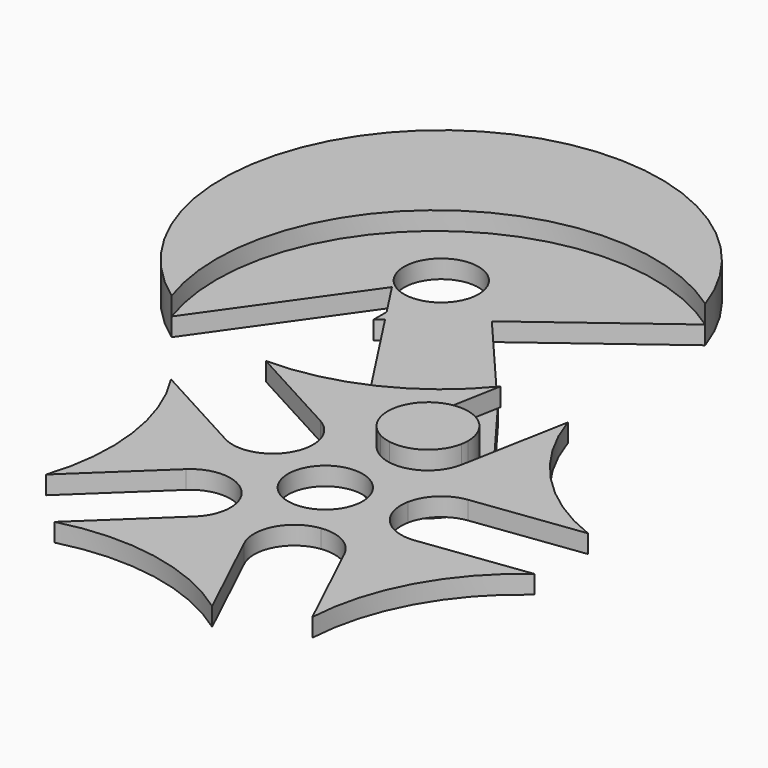
from build123d import *

# Parameters (mm, degrees)
F1_DEPTH = 3.175
F3_DEPTH = 3.175
F4_DEPTH = 3.175
F5_DEPTH = 6.35
F6_D     = 12.954
F7_D     = 12.954


with BuildPart() as f1:
    # F0 (on Top) → F1 (new body)
    with BuildSketch(Plane.XY):
        with BuildLine():
            Line((-3.4925, 19.3728821291), (0, 38.1))
            ThreePointArc((0, 38.1), (-13.191577027, 27.7363784004), (-29.5556407262, 24.0431716141))
            Line((-29.5556407262, 24.0431716141), (-12.8243350965, 14.9346090532))
            ThreePointArc((-12.8243350965, 14.9346090532), (-10.1591945825, 12.3678271309), (-9.1791413688, 8.799796989))
            ThreePointArc((-9.1791413688, 8.799796989), (-9.7556810347, 6.0209732906), (-11.3901252333, 3.7008760308))
            Line((-11.3901252333, 3.7008760308), (0, 0))
            Line((0, 0), (0, 11.9762864121))
            ThreePointArc((0, 11.9762864121), (-2.9421779805, 15.1098949687), (-3.4925, 19.3728821291))
        make_face()
        with BuildLine():
            Line((-7.0394845303, -9.6890192369), (0, 0))
            Line((0, 0), (-11.3901252333, 3.7008760308))
            ThreePointArc((-11.3901252333, 3.7008760308), (-15.279547067, 1.8710367881), (-19.5039476412, 2.6649849248))
            Line((-19.5039476412, 2.6649849248), (-36.2352532708, 11.7735474857))
            ThreePointArc((-36.2352532708, 11.7735474857), (-30.4552849001, -3.9749230036), (-31.9996103, -20.6793360785))
            Line((-31.9996103, -20.6793360785), (-18.1665947447, -7.5816194589))
            ThreePointArc((-18.1665947447, -7.5816194589), (-12.0642931739, -5.7907279512), (-7.0394845303, -9.6890192369))
        make_face()
        with BuildLine():
            ThreePointArc((-22.3946181123, -30.8235474857), (-5.6308241783, -30.1930159193), (9.778793934, -36.8237041754))
            Line((9.778793934, -36.8237041754), (1.5967620844, -19.6203075685))
            ThreePointArc((1.5967620844, -19.6203075685), (1.7792379362, -13.2632579843), (7.0394845303, -9.6890192369))
            Line((7.0394845303, -9.6890192369), (0, 0))
            Line((0, 0), (-7.0394845303, -9.6890192369))
            ThreePointArc((-7.0394845303, -9.6890192369), (-6.5461937442, -11.1350422846), (-6.3790986509, -12.6537251625))
            ThreePointArc((-6.3790986509, -12.6537251625), (-6.9478824678, -15.4145936657), (-8.561602557, -17.7258308661))
            Line((-8.561602557, -17.7258308661), (-22.3946181123, -30.8235474857))
        make_face()
        with BuildLine():
            ThreePointArc((22.3946181123, -30.8235474857), (26.9752441732, -14.6853870574), (38.0432373202, -2.0789646936))
            Line((38.0432373202, -2.0789646936), (19.1534479848, -4.5443974882))
            ThreePointArc((19.1534479848, -4.5443974882), (13.1639226926, -2.4064162846), (11.3901252333, 3.7008760308))
            Line((11.3901252333, 3.7008760308), (0, 0))
            Line((0, 0), (7.0394845303, -9.6890192369))
            ThreePointArc((7.0394845303, -9.6890192369), (11.261645413, -10.4947929864), (14.2125862627, -13.6201508788))
            Line((14.2125862627, -13.6201508788), (22.3946181123, -30.8235474857))
        make_face()
        with BuildLine():
            Line((17.3454639355, 9.3081146911), (36.2352532708, 11.7735474857))
            ThreePointArc((36.2352532708, 11.7735474857), (22.3024419322, 21.1169475799), (13.733219772, 35.5388333333))
            Line((13.733219772, 35.5388333333), (10.240719772, 16.8117154624))
            ThreePointArc((10.240719772, 16.8117154624), (8.1907895334, 13.0336604242), (4.3168759409, 11.1712138255))
            Line((4.3168759409, 11.1712138255), (0, 0))
            Line((0, 0), (11.3901252333, 3.7008760308))
            ThreePointArc((11.3901252333, 3.7008760308), (13.4611810741, 7.467391869), (17.3454639355, 9.3081146911))
        make_face()
        with BuildLine():
            Line((0, 0), (4.3168759409, 11.1712138255))
            ThreePointArc((4.3168759409, 11.1712138255), (2.0935265527, 11.2256889098), (0, 11.9762864121))
            Line((0, 11.9762864121), (0, 0))
        make_face()
    extrude(amount=F1_DEPTH)

    # F6 (through all)
    with Locations(Plane(origin=(0, 0, 0), x_dir=(1, 0, 0), z_dir=(0, 0, -1))):
        with Locations((0, 0)):
            Hole(F6_D / 2)


with BuildPart() as f3:
    # F2 (on Top) → F3 (new body)
    with BuildSketch(Plane.XY):
        with BuildLine():
            Line((0, 22.6059219694), (3.374109886, 18.0922987958))
            Line((3.374109886, 18.0922987958), (8.9687114132, 22.2744822868))
            ThreePointArc((8.9687114132, 22.2744822868), (4.8463766175, 24.9203772716), (0, 24.2083111795))
            Line((0, 24.2083111795), (0, 22.6059219694))
        make_face()
        with BuildLine():
            Line((3.374109886, 18.0922987958), (10.240719772, 16.8117154624))
            ThreePointArc((10.240719772, 16.8117154624), (10.3294493836, 17.4492766553), (10.359109886, 18.0922987958))
            ThreePointArc((10.359109886, 18.0922987958), (10.0024021497, 20.2959245958), (8.9687114132, 22.2744822868))
            Line((8.9687114132, 22.2744822868), (3.374109886, 18.0922987958))
        make_face()
        with BuildLine():
            ThreePointArc((2.1556683682, 11.2143903006), (7.3500328883, 12.3492803142), (10.240719772, 16.8117154624))
            Line((10.240719772, 16.8117154624), (3.374109886, 18.0922987958))
            Line((3.374109886, 18.0922987958), (0, 15.5700196677))
            Line((0, 15.5700196677), (0, 14.8690522954))
            Line((0, 14.8690522954), (2.1556683682, 11.2143903006))
        make_face()
        Polygon((0, 15.5700196677), (0, 18.7215509241), (-2.5532194688, 19.197711701), (-0.286939248, 15.3555213553), align=None)
        Polygon((0, 15.5700196677), (3.374109886, 18.0922987958), (0, 18.7215509241), align=None)
        Polygon((0, 18.7215509241), (3.374109886, 18.0922987958), (0, 22.6059219694), align=None)
        with BuildLine():
            ThreePointArc((-3.7462920577, 12.7695198073), (-2.0700740867, 11.0642862125), (0, 9.8674898328))
            Line((0, 9.8674898328), (0, 11.9762864121))
            ThreePointArc((0, 11.9762864121), (-1.2133043802, 12.8248653268), (-2.2204916412, 13.9101153048))
            Line((-2.2204916412, 13.9101153048), (-3.7462920577, 12.7695198073))
        make_face()
        with BuildLine():
            Line((-3.2916828829, 20.4496826507), (-2.4843020924, 24.7789354011))
            ThreePointArc((-2.4843020924, 24.7789354011), (-3.5587978247, 23.6570890591), (-4.4216116838, 22.3653334559))
            Line((-4.4216116838, 22.3653334559), (-3.2916828829, 20.4496826507))
        make_face()
        with BuildLine():
            Line((0, 11.9762864121), (0, 9.8674898328))
            ThreePointArc((0, 9.8674898328), (1.6390535727, 9.3732575876), (3.3424485628, 9.2023551761))
            Line((3.3424485628, 9.2023551761), (2.1556683682, 11.2143903006))
            ThreePointArc((2.1556683682, 11.2143903006), (1.0464493608, 11.5065398054), (0, 11.9762864121))
        make_face()
        with BuildLine():
            Line((10.240719772, 16.8117154624), (11.2489176796, 22.2177687344))
            ThreePointArc((11.2489176796, 22.2177687344), (10.8955768976, 22.8314584253), (10.4945118297, 23.4150777843))
            Line((10.4945118297, 23.4150777843), (8.9687114132, 22.2744822868))
            ThreePointArc((8.9687114132, 22.2744822868), (10.0024021497, 20.2959245958), (10.359109886, 18.0922987958))
            ThreePointArc((10.359109886, 18.0922987958), (10.3294493836, 17.4492766553), (10.240719772, 16.8117154624))
        make_face()
        with BuildLine():
            Line((8.9687114132, 22.2744822868), (10.4945118297, 23.4150777843))
            ThreePointArc((10.4945118297, 23.4150777843), (5.7435234291, 26.6607280253), (0, 26.3171077587))
            Line((0, 26.3171077587), (0, 24.2083111795))
            ThreePointArc((0, 24.2083111795), (4.8463766175, 24.9203772716), (8.9687114132, 22.2744822868))
        make_face()
        with BuildLine():
            Line((0, 24.2083111795), (0, 26.3171077587))
            ThreePointArc((0, 26.3171077587), (-1.0092561425, 25.8265215919), (-1.9486691025, 25.2127007395))
            Line((-1.9486691025, 25.2127007395), (-0.808073605, 23.6869003229))
            ThreePointArc((-0.808073605, 23.6869003229), (-0.4130209171, 23.961529178), (0, 24.2083111795))
        make_face()
        with BuildLine():
            Line((-0.808073605, 23.6869003229), (-1.9486691025, 25.2127007395))
            ThreePointArc((-1.9486691025, 25.2127007395), (-2.2206909105, 25.0010109803), (-2.4843020924, 24.7789354011))
            Line((-2.4843020924, 24.7789354011), (-3.2916828829, 20.4496826507))
            Line((-3.2916828829, 20.4496826507), (-3.2348314891, 20.3532983314))
            ThreePointArc((-3.2348314891, 20.3532983314), (-2.2730415666, 22.2032482569), (-0.808073605, 23.6869003229))
        make_face()
        with BuildLine():
            ThreePointArc((-8.9728483214, 30.081377266), (-11.6730301026, 28.5006057595), (-14.49381421, 27.1467234801))
            Line((-14.49381421, 27.1467234801), (-3.7462920577, 12.7695198073))
            ThreePointArc((-3.7462920577, 12.7695198073), (-5.4939561412, 17.4681954886), (-4.4216116838, 22.3653334559))
            Line((-4.4216116838, 22.3653334559), (-8.9728483214, 30.081377266))
        make_face()
        with BuildLine():
            Line((-2.3126117983, 25.6995551221), (-0.0964468265, 37.5828429241))
            Line((-0.0964468265, 37.5828429241), (-0.2530103227, 37.7922814571))
            ThreePointArc((-0.2530103227, 37.7922814571), (-3.3166716228, 34.5184272643), (-6.7437307754, 31.6271632841))
            Line((-6.7437307754, 31.6271632841), (-2.3126117983, 25.6995551221))
        make_face()
        with BuildLine():
            Line((10.4945118297, 23.4150777843), (0, 37.4538238211))
            Line((0, 37.4538238211), (0, 26.3171077587))
            ThreePointArc((0, 26.3171077587), (5.7435234291, 26.6607280253), (10.4945118297, 23.4150777843))
        make_face()
        with BuildLine():
            Line((0, 26.3171077587), (0, 37.4538238211))
            Line((0, 37.4538238211), (-0.0964468265, 37.5828429241))
            Line((-0.0964468265, 37.5828429241), (-2.3126117983, 25.6995551221))
            Line((-2.3126117983, 25.6995551221), (-1.9486691025, 25.2127007395))
            ThreePointArc((-1.9486691025, 25.2127007395), (-1.0092561425, 25.8265215919), (0, 26.3171077587))
        make_face()
        with BuildLine():
            Line((0, 22.6059219694), (0, 24.2083111795))
            ThreePointArc((0, 24.2083111795), (-0.4130209171, 23.961529178), (-0.808073605, 23.6869003229))
            Line((-0.808073605, 23.6869003229), (0, 22.6059219694))
        make_face()
        with BuildLine():
            Line((-1.9486691025, 25.2127007395), (-2.3126117983, 25.6995551221))
            Line((-2.3126117983, 25.6995551221), (-2.4843020924, 24.7789354011))
            ThreePointArc((-2.4843020924, 24.7789354011), (-2.2206909105, 25.0010109803), (-1.9486691025, 25.2127007395))
        make_face()
        with BuildLine():
            ThreePointArc((-6.7437307754, 31.6271632841), (-3.3166716228, 34.5184272643), (-0.2530103227, 37.7922814571))
            Line((-0.2530103227, 37.7922814571), (-0.3964227158, 37.9114591345))
            Line((-0.3964227158, 37.9114591345), (-8.5445523178, 34.0361630263))
            Line((-8.5445523178, 34.0361630263), (-6.7437307754, 31.6271632841))
        make_face()
        with BuildLine():
            ThreePointArc((-8.9728483214, 30.081377266), (-7.8445280938, 30.8344254197), (-6.7437307754, 31.6271632841))
            Line((-6.7437307754, 31.6271632841), (-8.5445523178, 34.0361630263))
            Line((-8.5445523178, 34.0361630263), (-10.7006800626, 33.0106965859))
            Line((-10.7006800626, 33.0106965859), (-8.9728483214, 30.081377266))
        make_face()
        with BuildLine():
            ThreePointArc((-10.483112718, 36.6294191565), (-14.5886680137, 35.1963175004), (-18.5041843573, 33.304731815))
            Line((-18.5041843573, 33.304731815), (-16.5125517946, 30.2465378152))
            Line((-16.5125517946, 30.2465378152), (-10.7006800626, 33.0106965859))
            Line((-10.7006800626, 33.0106965859), (-8.5445523178, 34.0361630263))
            Line((-8.5445523178, 34.0361630263), (-10.483112718, 36.6294191565))
        make_face()
        with BuildLine():
            Line((-0.3964227158, 37.9114591345), (-0.6172854684, 38.0949991292))
            ThreePointArc((-0.6172854684, 38.0949991292), (-5.5983650416, 37.6864472836), (-10.483112718, 36.6294191565))
            Line((-10.483112718, 36.6294191565), (-8.5445523178, 34.0361630263))
            Line((-8.5445523178, 34.0361630263), (-0.3964227158, 37.9114591345))
        make_face()
        with BuildLine():
            ThreePointArc((-0.6172854684, 38.0949991292), (-0.5650149545, 38.0958102434), (-0.5127433768, 38.0965496368))
            Line((-0.5127433768, 38.0965496368), (-16.6970522411, 57.0559008639))
            Line((-16.6970522411, 57.0559008639), (-22.5063728772, 52.7132064397))
            Line((-22.5063728772, 52.7132064397), (-10.483112718, 36.6294191565))
            ThreePointArc((-10.483112718, 36.6294191565), (-5.5983650416, 37.6864472836), (-0.6172854684, 38.0949991292))
        make_face()
        with BuildLine():
            Line((-28.3156935133, 48.3705120154), (-18.5041843573, 33.304731815))
            ThreePointArc((-18.5041843573, 33.304731815), (-14.5886680137, 35.1963175004), (-10.483112718, 36.6294191565))
            Line((-10.483112718, 36.6294191565), (-22.5063728772, 52.7132064397))
            Line((-22.5063728772, 52.7132064397), (-28.3156935133, 48.3705120154))
        make_face()
        with BuildLine():
            Line((-22.5063728772, 52.7132064397), (-16.6970522411, 57.0559008639))
            Line((-16.6970522411, 57.0559008639), (-22.9554744347, 64.3874233584))
            Line((-22.9554744347, 64.3874233584), (-23.4234489343, 64.2282981878))
            ThreePointArc((-23.4234489343, 64.2282981878), (-23.1654241713, 63.1998936126), (-23.0786407262, 62.1431716141))
            ThreePointArc((-23.0786407262, 62.1431716141), (-23.7647213291, 59.2420026194), (-25.6776160345, 56.955450198))
            Line((-25.6776160345, 56.955450198), (-22.5063728772, 52.7132064397))
        make_face()
        with BuildLine():
            Line((-29.5556407262, 50.2744772333), (-28.3156935133, 48.3705120154))
            Line((-28.3156935133, 48.3705120154), (-22.5063728772, 52.7132064397))
            Line((-22.5063728772, 52.7132064397), (-25.6776160345, 56.955450198))
            ThreePointArc((-25.6776160345, 56.955450198), (-27.5122786207, 55.9969369696), (-29.5556407262, 55.6661716141))
            Line((-29.5556407262, 55.6661716141), (-29.5556407262, 50.2744772333))
        make_face()
        with BuildLine():
            Line((-33.2910814494, 56.8518568811), (-33.576149344, 56.4480534045))
            Line((-33.576149344, 56.4480534045), (-29.5556407262, 50.2744772333))
            Line((-29.5556407262, 50.2744772333), (-29.5556407262, 55.6661716141))
            ThreePointArc((-29.5556407262, 55.6661716141), (-31.5151921384, 55.9697052246), (-33.2910814494, 56.8518568811))
        make_face()
        with BuildLine():
            Line((-29.5556407262, 62.1431716141), (-33.2910814494, 56.8518568811))
            ThreePointArc((-33.2910814494, 56.8518568811), (-31.5151921384, 55.9697052246), (-29.5556407262, 55.6661716141))
            Line((-29.5556407262, 55.6661716141), (-29.5556407262, 62.1431716141))
        make_face()
        with BuildLine():
            Line((-29.5556407262, 62.1431716141), (-29.5556407262, 55.6661716141))
            ThreePointArc((-29.5556407262, 55.6661716141), (-27.5122786207, 55.9969369696), (-25.6776160345, 56.955450198))
            Line((-25.6776160345, 56.955450198), (-29.5556407262, 62.1431716141))
        make_face()
        with BuildLine():
            ThreePointArc((-23.0786407262, 62.1431716141), (-23.1654241713, 63.1998936126), (-23.4234489343, 64.2282981878))
            Line((-23.4234489343, 64.2282981878), (-29.5556407262, 62.1431716141))
            Line((-29.5556407262, 62.1431716141), (-25.6776160345, 56.955450198))
            ThreePointArc((-25.6776160345, 56.955450198), (-23.7647213291, 59.2420026194), (-23.0786407262, 62.1431716141))
        make_face()
        with BuildLine():
            ThreePointArc((-24.6293998875, 66.3483684227), (-33.4336654178, 67.3308930302), (-34.9831510827, 58.6085343866))
            Line((-34.9831510827, 58.6085343866), (-24.6293998875, 66.3483684227))
        make_face()
        with BuildLine():
            Line((-24.6293998875, 66.3483684227), (-34.9831510827, 58.6085343866))
            ThreePointArc((-34.9831510827, 58.6085343866), (-34.2205519886, 57.6498285476), (-33.2910814494, 56.8518568811))
            Line((-33.2910814494, 56.8518568811), (-29.5556407262, 62.1431716141))
            Line((-29.5556407262, 62.1431716141), (-23.4234489343, 64.2282981878))
            ThreePointArc((-23.4234489343, 64.2282981878), (-23.9257288697, 65.3456115415), (-24.6293998875, 66.3483684227))
        make_face()
        with BuildLine():
            Line((-34.9831510827, 58.6085343866), (-33.576149344, 56.4480534045))
            Line((-33.576149344, 56.4480534045), (-33.2910814494, 56.8518568811))
            ThreePointArc((-33.2910814494, 56.8518568811), (-34.2205519886, 57.6498285476), (-34.9831510827, 58.6085343866))
        make_face()
        with BuildLine():
            Line((-24.6293998875, 66.3483684227), (-34.9831510827, 58.6085343866))
            ThreePointArc((-34.9831510827, 58.6085343866), (-34.2205519886, 57.6498285476), (-33.2910814494, 56.8518568811))
            Line((-33.2910814494, 56.8518568811), (-29.5556407262, 62.1431716141))
            Line((-29.5556407262, 62.1431716141), (-23.4234489343, 64.2282981878))
            ThreePointArc((-23.4234489343, 64.2282981878), (-23.9257288697, 65.3456115415), (-24.6293998875, 66.3483684227))
        make_face()
        with BuildLine():
            Line((-23.4234489343, 64.2282981878), (-22.9554744347, 64.3874233584))
            Line((-22.9554744347, 64.3874233584), (-24.6293998875, 66.3483684227))
            ThreePointArc((-24.6293998875, 66.3483684227), (-23.9257288697, 65.3456115415), (-23.4234489343, 64.2282981878))
        make_face()
        with BuildLine():
            ThreePointArc((6.5160756963, 74.4086220475), (-52.367550677, 92.6591799441), (-51.5288214508, 31.0177908318))
            ThreePointArc((-51.5288214508, 31.0177908318), (-38.2690149791, 73.7992495952), (6.5160756963, 74.4086220475))
        make_face()
        with BuildLine():
            ThreePointArc((6.5160756963, 74.4086220475), (-38.2690149791, 73.7992495952), (-51.5288214508, 31.0177908318))
            Line((-51.5288214508, 31.0177908318), (-33.576149344, 56.4480534045))
            Line((-33.576149344, 56.4480534045), (-34.9831510827, 58.6085343866))
            ThreePointArc((-34.9831510827, 58.6085343866), (-33.4336654178, 67.3308930302), (-24.6293998875, 66.3483684227))
            Line((-24.6293998875, 66.3483684227), (-22.9554744347, 64.3874233584))
            Line((-22.9554744347, 64.3874233584), (6.5160756963, 74.4086220475))
        make_face()
        Polygon((-29.5556407262, 50.2744772333), (-29.5556407262, 47.4436029696), (-28.3156935133, 48.3705120154), align=None)
        Polygon((-22.9554744347, 64.3874233584), (-16.6970522411, 57.0559008639), (6.5160756963, 74.4086220475), align=None)
        with BuildLine():
            ThreePointArc((-4.4216116838, 22.3653334559), (-5.4939561412, 17.4681954886), (-3.7462920577, 12.7695198073))
            Line((-3.7462920577, 12.7695198073), (-2.2204916412, 13.9101153048))
            ThreePointArc((-2.2204916412, 13.9101153048), (-3.4288970091, 16.508214775), (-3.4925, 19.3728821291))
            Line((-3.4925, 19.3728821291), (-3.2916828829, 20.4496826507))
            Line((-3.2916828829, 20.4496826507), (-4.4216116838, 22.3653334559))
        make_face()
        with BuildLine():
            ThreePointArc((-3.4925, 19.3728821291), (-3.4288970091, 16.508214775), (-2.2204916412, 13.9101153048))
            Line((-2.2204916412, 13.9101153048), (-0.286939248, 15.3555213553))
            Line((-0.286939248, 15.3555213553), (-2.5532194688, 19.197711701))
            Line((-2.5532194688, 19.197711701), (-3.4925, 19.3728821291))
        make_face()
        with BuildLine():
            ThreePointArc((0, 11.9762864121), (1.0464493608, 11.5065398054), (2.1556683682, 11.2143903006))
            Line((2.1556683682, 11.2143903006), (0, 14.8690522954))
            Line((0, 14.8690522954), (0, 11.9762864121))
        make_face()
        with BuildLine():
            ThreePointArc((-2.2204916412, 13.9101153048), (-1.2133043802, 12.8248653268), (0, 11.9762864121))
            Line((0, 11.9762864121), (0, 14.8690522954))
            Line((0, 14.8690522954), (-0.286939248, 15.3555213553))
            Line((-0.286939248, 15.3555213553), (-2.2204916412, 13.9101153048))
        make_face()
        with BuildLine():
            Line((-2.5532194688, 19.197711701), (0, 18.7215509241))
            Line((0, 18.7215509241), (0, 22.6059219694))
            Line((0, 22.6059219694), (-0.808073605, 23.6869003229))
            ThreePointArc((-0.808073605, 23.6869003229), (-2.2730415666, 22.2032482569), (-3.2348314891, 20.3532983314))
            Line((-3.2348314891, 20.3532983314), (-2.5532194688, 19.197711701))
        make_face()
        with BuildLine():
            Line((-3.4925, 19.3728821291), (-2.5532194688, 19.197711701))
            Line((-2.5532194688, 19.197711701), (-3.2348314891, 20.3532983314))
            ThreePointArc((-3.2348314891, 20.3532983314), (-3.3814747986, 19.8677707245), (-3.4925, 19.3728821291))
        make_face()
        Polygon((0, 14.8690522954), (0, 15.5700196677), (-0.286939248, 15.3555213553), align=None)
        with BuildLine():
            ThreePointArc((12.264109886, 18.0922987958), (12.0065817592, 20.2165702845), (11.2489176796, 22.2177687344))
            Line((11.2489176796, 22.2177687344), (10.240719772, 16.8117154624))
            ThreePointArc((10.240719772, 16.8117154624), (7.3500328883, 12.3492803142), (2.1556683682, 11.2143903006))
            Line((2.1556683682, 11.2143903006), (3.3424485628, 9.2023551761))
            ThreePointArc((3.3424485628, 9.2023551761), (9.6490852181, 11.7949354919), (12.264109886, 18.0922987958))
        make_face()
        with BuildLine():
            Line((-2.4843020924, 24.7789354011), (-2.3126117983, 25.6995551221))
            Line((-2.3126117983, 25.6995551221), (-6.7437307754, 31.6271632841))
            ThreePointArc((-6.7437307754, 31.6271632841), (-7.8445280938, 30.8344254197), (-8.9728483214, 30.081377266))
            Line((-8.9728483214, 30.081377266), (-4.4216116838, 22.3653334559))
            ThreePointArc((-4.4216116838, 22.3653334559), (-3.5587978247, 23.6570890591), (-2.4843020924, 24.7789354011))
        make_face()
        with BuildLine():
            Line((-10.7006800626, 33.0106965859), (-16.5125517946, 30.2465378152))
            Line((-16.5125517946, 30.2465378152), (-14.49381421, 27.1467234801))
            ThreePointArc((-14.49381421, 27.1467234801), (-11.6730301026, 28.5006057595), (-8.9728483214, 30.081377266))
            Line((-8.9728483214, 30.081377266), (-10.7006800626, 33.0106965859))
        make_face()
        with BuildLine():
            Line((-3.2348314891, 20.3532983314), (-3.2916828829, 20.4496826507))
            Line((-3.2916828829, 20.4496826507), (-3.4925, 19.3728821291))
            ThreePointArc((-3.4925, 19.3728821291), (-3.3814747986, 19.8677707245), (-3.2348314891, 20.3532983314))
        make_face()
    extrude(amount=-F3_DEPTH)

    # F2 (on Top) → F4 (join)
    with BuildSketch(Plane.XY):
        with BuildLine():
            ThreePointArc((6.5160756963, 74.4086220475), (-52.367550677, 92.6591799441), (-51.5288214508, 31.0177908318))
            ThreePointArc((-51.5288214508, 31.0177908318), (-38.2690149791, 73.7992495952), (6.5160756963, 74.4086220475))
        make_face()
    extrude(amount=F4_DEPTH)

    # F7 (through all)
    with Locations(Plane.XY):
        with Locations((-29.5556407262, 62.1431716141)):
            Hole(F7_D / 2)


with BuildPart() as f5:
    # F2 (on Top) → F5 (new body)
    with BuildSketch(Plane.XY):
        with BuildLine():
            Line((0, 22.6059219694), (3.374109886, 18.0922987958))
            Line((3.374109886, 18.0922987958), (8.9687114132, 22.2744822868))
            ThreePointArc((8.9687114132, 22.2744822868), (4.8463766175, 24.9203772716), (0, 24.2083111795))
            Line((0, 24.2083111795), (0, 22.6059219694))
        make_face()
        with BuildLine():
            Line((3.374109886, 18.0922987958), (10.240719772, 16.8117154624))
            ThreePointArc((10.240719772, 16.8117154624), (10.3294493836, 17.4492766553), (10.359109886, 18.0922987958))
            ThreePointArc((10.359109886, 18.0922987958), (10.0024021497, 20.2959245958), (8.9687114132, 22.2744822868))
            Line((8.9687114132, 22.2744822868), (3.374109886, 18.0922987958))
        make_face()
        with BuildLine():
            ThreePointArc((2.1556683682, 11.2143903006), (7.3500328883, 12.3492803142), (10.240719772, 16.8117154624))
            Line((10.240719772, 16.8117154624), (3.374109886, 18.0922987958))
            Line((3.374109886, 18.0922987958), (0, 15.5700196677))
            Line((0, 15.5700196677), (0, 14.8690522954))
            Line((0, 14.8690522954), (2.1556683682, 11.2143903006))
        make_face()
        Polygon((0, 18.7215509241), (3.374109886, 18.0922987958), (0, 22.6059219694), align=None)
        Polygon((0, 15.5700196677), (3.374109886, 18.0922987958), (0, 18.7215509241), align=None)
        Polygon((0, 15.5700196677), (0, 18.7215509241), (-2.5532194688, 19.197711701), (-0.286939248, 15.3555213553), align=None)
        with BuildLine():
            Line((-2.5532194688, 19.197711701), (0, 18.7215509241))
            Line((0, 18.7215509241), (0, 22.6059219694))
            Line((0, 22.6059219694), (-0.808073605, 23.6869003229))
            ThreePointArc((-0.808073605, 23.6869003229), (-2.2730415666, 22.2032482569), (-3.2348314891, 20.3532983314))
            Line((-3.2348314891, 20.3532983314), (-2.5532194688, 19.197711701))
        make_face()
        with BuildLine():
            Line((0, 22.6059219694), (0, 24.2083111795))
            ThreePointArc((0, 24.2083111795), (-0.4130209171, 23.961529178), (-0.808073605, 23.6869003229))
            Line((-0.808073605, 23.6869003229), (0, 22.6059219694))
        make_face()
        Polygon((0, 14.8690522954), (0, 15.5700196677), (-0.286939248, 15.3555213553), align=None)
        with BuildLine():
            ThreePointArc((-3.4925, 19.3728821291), (-3.4288970091, 16.508214775), (-2.2204916412, 13.9101153048))
            Line((-2.2204916412, 13.9101153048), (-0.286939248, 15.3555213553))
            Line((-0.286939248, 15.3555213553), (-2.5532194688, 19.197711701))
            Line((-2.5532194688, 19.197711701), (-3.4925, 19.3728821291))
        make_face()
        with BuildLine():
            ThreePointArc((-2.2204916412, 13.9101153048), (-1.2133043802, 12.8248653268), (0, 11.9762864121))
            Line((0, 11.9762864121), (0, 14.8690522954))
            Line((0, 14.8690522954), (-0.286939248, 15.3555213553))
            Line((-0.286939248, 15.3555213553), (-2.2204916412, 13.9101153048))
        make_face()
        with BuildLine():
            ThreePointArc((0, 11.9762864121), (1.0464493608, 11.5065398054), (2.1556683682, 11.2143903006))
            Line((2.1556683682, 11.2143903006), (0, 14.8690522954))
            Line((0, 14.8690522954), (0, 11.9762864121))
        make_face()
        with BuildLine():
            Line((-3.4925, 19.3728821291), (-2.5532194688, 19.197711701))
            Line((-2.5532194688, 19.197711701), (-3.2348314891, 20.3532983314))
            ThreePointArc((-3.2348314891, 20.3532983314), (-3.3814747986, 19.8677707245), (-3.4925, 19.3728821291))
        make_face()
    extrude(amount=F5_DEPTH)


solid = Compound([f1.part, f3.part, f5.part])
